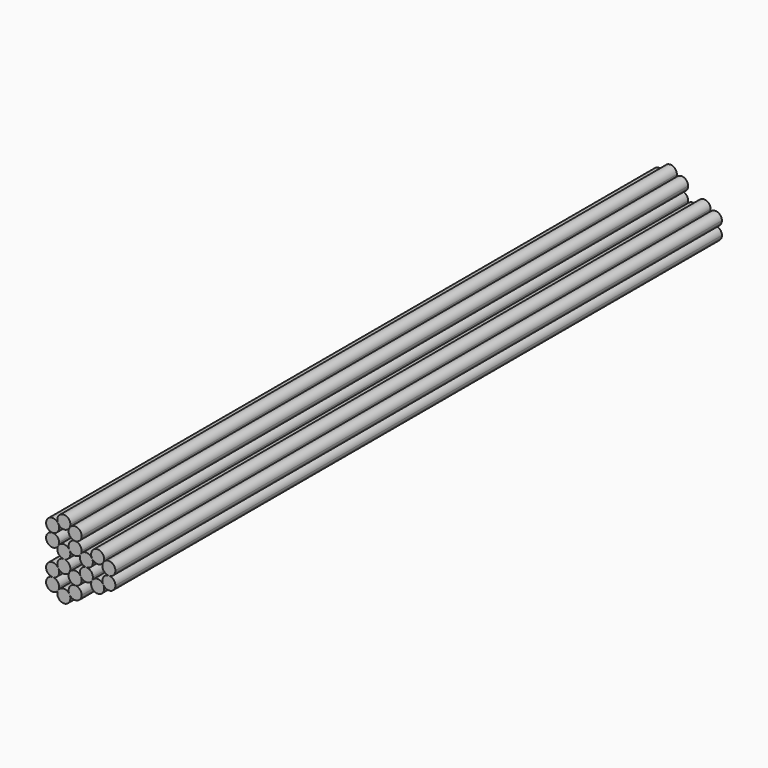
from build123d import *

# Parameters (mm, degrees)
F1_DEPTH = 340.36


with BuildPart() as f1:
    # F0 (on Front) → F1 (new body)
    with BuildSketch(Plane.XZ):
        with BuildLine():
            ThreePointArc((2.5273, 10.235741), (2.523762, 7.312702), (5.0546, 5.850161))
            ThreePointArc((5.0546, 5.850161), (7.120059, 6.705702), (7.9756, 8.771161))
            ThreePointArc((7.9756, 8.771161), (7.875458, 9.529448), (7.5819, 10.235741))
            ThreePointArc((7.5819, 10.235741), (5.0546, 11.692161), (2.5273, 10.235741))
        make_face()
        with BuildLine():
            ThreePointArc((7.5819, -7.30658), (5.0546, -5.850161), (2.5273, -7.30658))
            ThreePointArc((2.5273, -7.30658), (4.296313, -11.592019), (7.9756, -8.771161))
            ThreePointArc((7.9756, -8.771161), (7.875458, -8.012874), (7.5819, -7.30658))
        make_face()
        with BuildLine():
            ThreePointArc((0, -2.921), (2.065459, -2.065459), (2.921, 0))
            ThreePointArc((2.921, 0), (2.820858, 0.758287), (2.5273, 1.46458))
            ThreePointArc((2.5273, 1.46458), (-2.530838, 1.458458), (0, -2.921))
        make_face()
        with BuildLine():
            ThreePointArc((12.6365, 10.235741), (12.632962, 7.312702), (15.1638, 5.850161))
            ThreePointArc((15.1638, 5.850161), (17.229259, 6.705702), (18.0848, 8.771161))
            ThreePointArc((18.0848, 8.771161), (17.984658, 9.529448), (17.6911, 10.235741))
            ThreePointArc((17.6911, 10.235741), (15.1638, 11.692161), (12.6365, 10.235741))
        make_face()
        with BuildLine():
            ThreePointArc((12.6365, 1.46458), (10.1092, 2.921), (7.5819, 1.46458))
            ThreePointArc((7.5819, 1.46458), (7.578362, -1.458458), (10.1092, -2.921))
            ThreePointArc((10.1092, -2.921), (12.174659, -2.065459), (13.0302, 0))
            ThreePointArc((13.0302, 0), (12.930058, 0.758287), (12.6365, 1.46458))
        make_face()
        with BuildLine():
            ThreePointArc((10.1092, 14.621322), (7.578362, 13.15878), (7.5819, 10.235741))
            ThreePointArc((7.5819, 10.235741), (10.1092, 8.779322), (12.6365, 10.235741))
            ThreePointArc((12.6365, 10.235741), (12.930058, 10.942035), (13.0302, 11.700322))
            ThreePointArc((13.0302, 11.700322), (12.174659, 13.76578), (10.1092, 14.621322))
        make_face()
        with BuildLine():
            ThreePointArc((13.0302, -5.842), (12.174659, -3.776541), (10.1092, -2.921))
            ThreePointArc((10.1092, -2.921), (7.578362, -4.383542), (7.5819, -7.30658))
            ThreePointArc((7.5819, -7.30658), (10.867487, -8.662858), (13.0302, -5.842))
        make_face()
        with BuildLine():
            ThreePointArc((2.921, -5.842), (2.065459, -3.776541), (0, -2.921))
            ThreePointArc((0, -2.921), (-2.530838, -7.300458), (2.5273, -7.30658))
            ThreePointArc((2.5273, -7.30658), (2.820858, -6.600287), (2.921, -5.842))
        make_face()
        with BuildLine():
            ThreePointArc((2.5273, 19.006902), (-2.530838, 19.00078), (0, 14.621322))
            ThreePointArc((0, 14.621322), (2.065459, 15.476863), (2.921, 17.542322))
            ThreePointArc((2.921, 17.542322), (2.820858, 18.300608), (2.5273, 19.006902))
        make_face()
        with BuildLine():
            ThreePointArc((15.1638, 5.850161), (12.632962, 4.387619), (12.6365, 1.46458))
            ThreePointArc((12.6365, 1.46458), (15.1638, 0.008161), (17.6911, 1.46458))
            ThreePointArc((17.6911, 1.46458), (17.984658, 2.170874), (18.0848, 2.929161))
            ThreePointArc((18.0848, 2.929161), (17.229259, 4.99462), (15.1638, 5.850161))
        make_face()
        with BuildLine():
            ThreePointArc((7.9756, 20.471482), (4.296313, 23.292341), (2.5273, 19.006902))
            ThreePointArc((2.5273, 19.006902), (5.0546, 17.550482), (7.5819, 19.006902))
            ThreePointArc((7.5819, 19.006902), (7.875458, 19.713196), (7.9756, 20.471482))
        make_face()
        with BuildLine():
            ThreePointArc((22.7457, 10.235741), (22.742162, 7.312702), (25.273, 5.850161))
            ThreePointArc((25.273, 5.850161), (27.338459, 6.705702), (28.194, 8.771161))
            ThreePointArc((28.194, 8.771161), (26.031287, 11.592019), (22.7457, 10.235741))
        make_face()
        with BuildLine():
            ThreePointArc((7.5819, 19.006902), (7.578362, 16.083863), (10.1092, 14.621322))
            ThreePointArc((10.1092, 14.621322), (12.174659, 15.476863), (13.0302, 17.542322))
            ThreePointArc((13.0302, 17.542322), (10.867487, 20.36318), (7.5819, 19.006902))
        make_face()
        with BuildLine():
            ThreePointArc((23.1394, 11.700322), (19.460113, 14.52118), (17.6911, 10.235741))
            ThreePointArc((17.6911, 10.235741), (20.2184, 8.779322), (22.7457, 10.235741))
            ThreePointArc((22.7457, 10.235741), (23.039258, 10.942035), (23.1394, 11.700322))
        make_face()
        with BuildLine():
            ThreePointArc((0, 14.621322), (-2.530838, 10.241863), (2.5273, 10.235741))
            ThreePointArc((2.5273, 10.235741), (2.820858, 10.942035), (2.921, 11.700322))
            ThreePointArc((2.921, 11.700322), (2.065459, 13.76578), (0, 14.621322))
        make_face()
        with BuildLine():
            ThreePointArc((22.7457, 1.46458), (20.2184, 2.921), (17.6911, 1.46458))
            ThreePointArc((17.6911, 1.46458), (19.460113, -2.820858), (23.1394, 0))
            ThreePointArc((23.1394, 0), (23.039258, 0.758287), (22.7457, 1.46458))
        make_face()
        with BuildLine():
            ThreePointArc((25.273, 5.850161), (22.742162, 4.387619), (22.7457, 1.46458))
            ThreePointArc((22.7457, 1.46458), (26.031287, 0.108302), (28.194, 2.929161))
            ThreePointArc((28.194, 2.929161), (27.338459, 4.99462), (25.273, 5.850161))
        make_face()
        with BuildLine():
            ThreePointArc((5.0546, 5.850161), (2.523762, 4.387619), (2.5273, 1.46458))
            ThreePointArc((2.5273, 1.46458), (5.0546, 0.008161), (7.5819, 1.46458))
            ThreePointArc((7.5819, 1.46458), (7.875458, 2.170874), (7.9756, 2.929161))
            ThreePointArc((7.9756, 2.929161), (7.120059, 4.99462), (5.0546, 5.850161))
        make_face()
    extrude(amount=F1_DEPTH)


solid = f1.part
